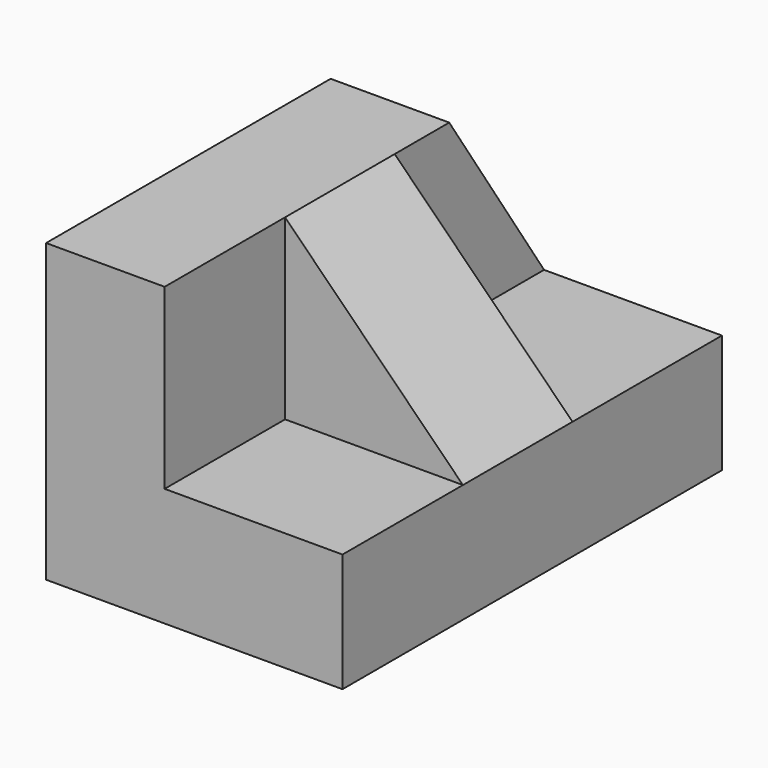
from build123d import *

# Parameters (mm, degrees)
F1_DEPTH = 50.8
F3_DEPTH = 12.701
F4_W     = 19.05
F4_H     = 14.675198
F5_DEPTH = 19.05
F7_DEPTH = 30.798499


with BuildPart() as f1:
    # F0 (on Front) → F1 (new body)
    with BuildSketch(Plane.XZ):
        Polygon((-42.055184, 37.533606), (-54.755184, 37.533606), (-54.755184, 5.783606), (-23.005184, 5.783606), (-23.005184, 18.483606), (-42.055184, 18.483606), align=None)
    extrude(amount=F1_DEPTH)

    # F2 (on face) → F3 (cut, through all)
    with BuildSketch(Plane.YZ.offset(-42.055184)):
        Polygon((0, 37.533606), (-12.7, 37.533606), (0, 18.483606), align=None)
    extrude(amount=-F3_DEPTH, mode=Mode.SUBTRACT)

    # F4 (on face) → F5 (join)
    with BuildSketch(Plane.XY.offset(18.483606)):
        with Locations((-32.530184, -27.3401)):
            Rectangle(F4_W, F4_H)
    extrude(amount=F5_DEPTH)

    # F6 (on face) → F7 (cut, through all)
    with BuildSketch(Plane(origin=(0, -20.002501, 0), x_dir=(-1, 0, 0), z_dir=(0, 1, 0))):
        Polygon((23.005184, 18.483606), (42.055184, 37.533606), (23.005184, 37.533606), align=None)
    extrude(amount=-F7_DEPTH, mode=Mode.SUBTRACT)


solid = f1.part
